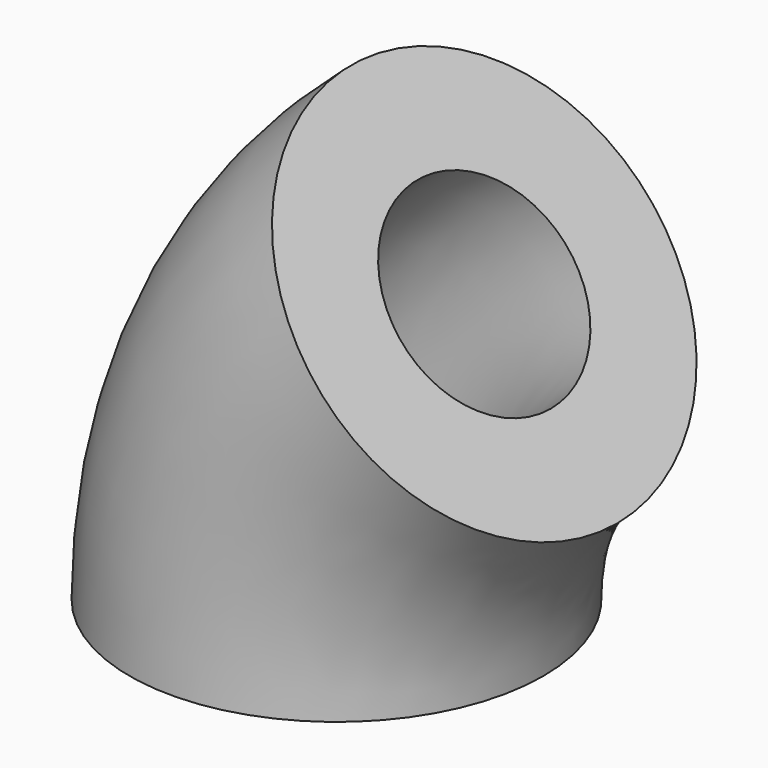
from build123d import *

# Parameters (mm, degrees)
F1_R     = 40
F1_R_2   = 20
F2_ANGLE = 50


with BuildPart() as f2:
    # F1 (on Top) → F2 (revolve)
    with BuildSketch(Plane.XY):
        with Locations((-80, 0)):
            Circle(F1_R)
        with Locations((-80, 0)):
            Circle(F1_R_2, mode=Mode.SUBTRACT)
    revolve(axis=Axis((0, -21.9608899206, 0), (0, 1, 0)), revolution_arc=F2_ANGLE)


solid = f2.part
